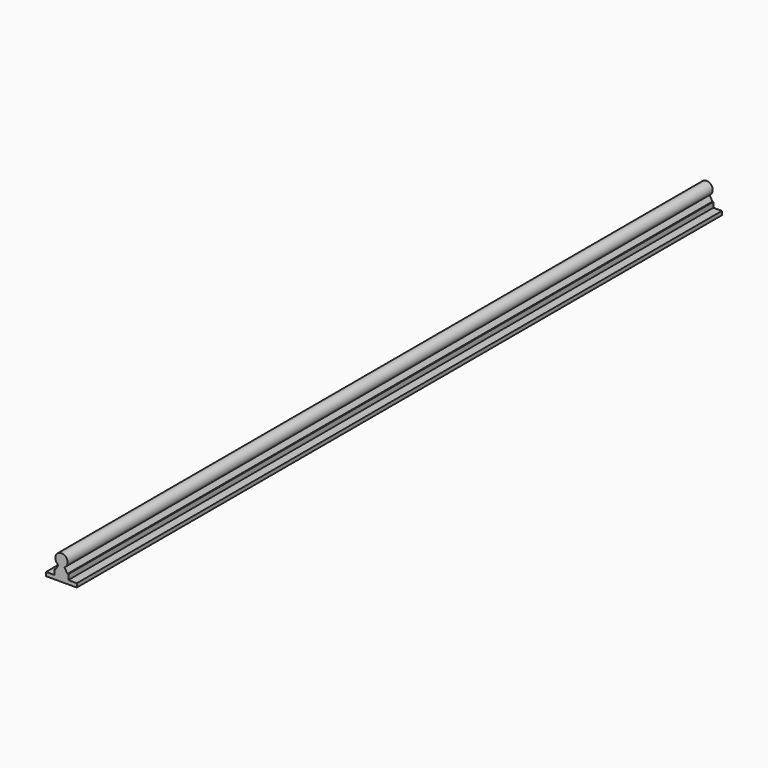
from build123d import *

# Parameters (mm, degrees)
F1_DEPTH = 525


with BuildPart() as f1:
    # F0 (on Front) → F1 (new body, symmetric)
    with BuildSketch(Plane.XZ):
        with BuildLine():
            Line((-20, -2.5), (20, -2.5))
            Line((20, -2.5), (20, 2.5))
            Line((20, 2.5), (8.9, 2.5))
            Line((8.9, 2.5), (8.9, 9.2))
            Line((8.9, 9.2), (7.68, 9.2))
            Line((7.68, 9.2), (4.000485, 15.572077))
            ThreePointArc((4.000485, 15.572077), (0, 30.5), (-4.000485, 15.572077))
            Line((-4.000485, 15.572077), (-7.68, 9.2))
            Line((-7.68, 9.2), (-8.9, 9.2))
            Line((-8.9, 9.2), (-8.9, 2.5))
            Line((-8.9, 2.5), (-20, 2.5))
            Line((-20, 2.5), (-20, -2.5))
        make_face()
    extrude(amount=F1_DEPTH, both=True)


solid = f1.part
